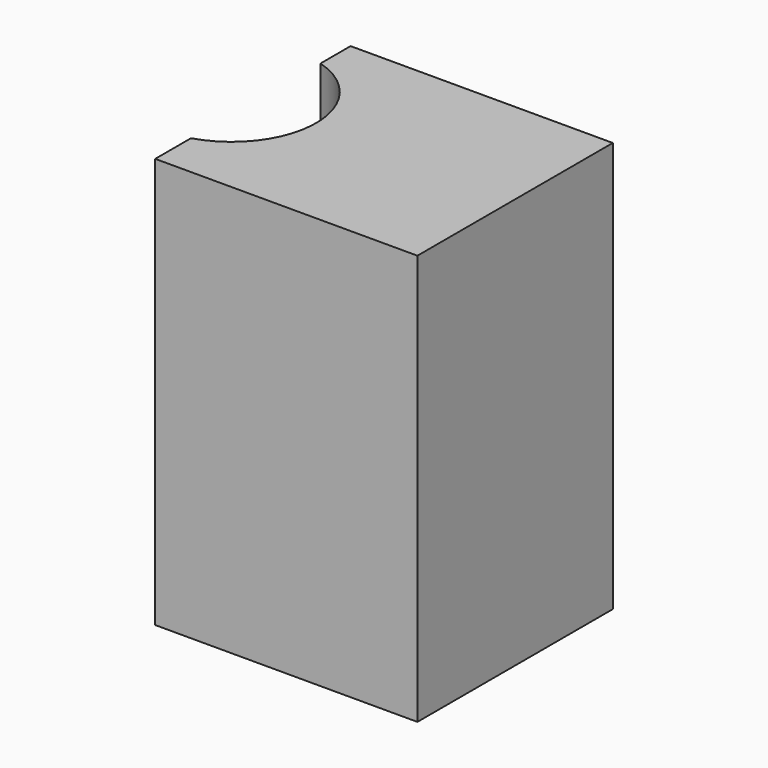
from build123d import *

# Parameters (mm, degrees)
SKETCH017_W          = 108.598946
SKETCH017_H          = 101.145454
PAD007_DEPTH         = 170
SKETCH018_R          = 35
POCKET011_DEPTH      = 0.001
POCKET012_DEPTH      = 0.001
POCKET012_DEPTH_BACK = 170.001


with BuildPart() as part:
    # Sketch017 → Pad007 (new body)
    with BuildSketch(Plane.XY):
        with Locations((64.32481, -8.960884)):
            Rectangle(SKETCH017_W, SKETCH017_H)
    extrude(amount=PAD007_DEPTH)

    # Sketch018 → Pocket011 (cut, through all)
    with BuildSketch(Plane.XY):
        with Locations((0.01, -7.49)):
            Circle(SKETCH018_R)
    extrude(amount=-POCKET011_DEPTH, mode=Mode.SUBTRACT)

    # Sketch018 → Pocket012 (cut, two sides)
    with BuildSketch(Plane.XY) as pocket012_sk:
        with Locations((0.01, -7.49)):
            Circle(SKETCH018_R)
    extrude(amount=-POCKET012_DEPTH, mode=Mode.SUBTRACT)
    extrude(pocket012_sk.sketch, amount=POCKET012_DEPTH_BACK, mode=Mode.SUBTRACT)


with BuildPart() as part_1:
    # Body005 placement: moved
    add(part.part.moved(Location((0, 0, 67))))


solid = part_1.part
